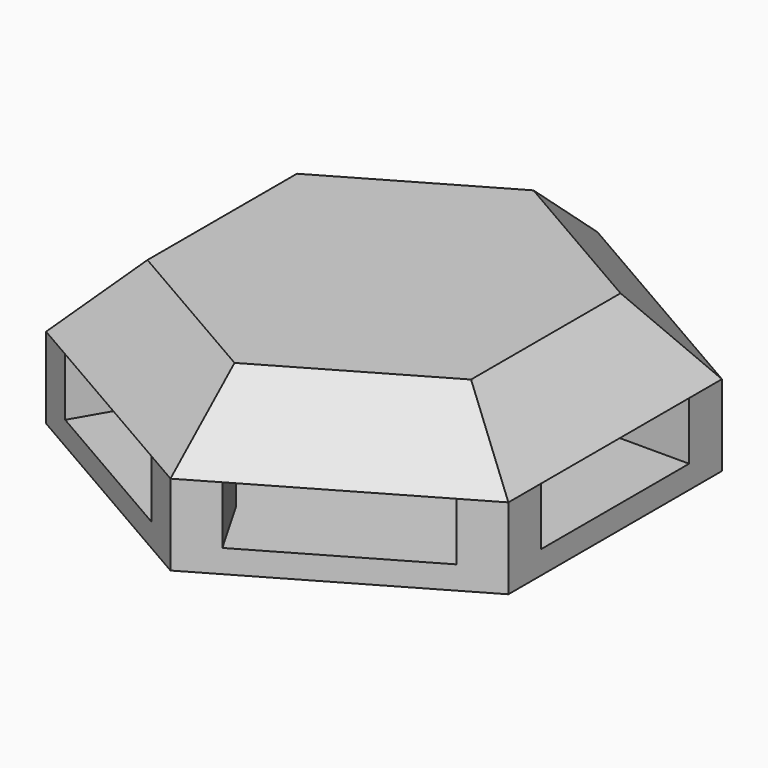
from build123d import *

# Parameters (mm, degrees)
BOX001_W                    = 8
BOX001_H                    = 20
BOX001_DEPTH                = 2.5
ARRAY_COUNT                 = 3
ARRAY_ANGLE                 = 120
PAD_DEPTH                   = 3
PAD_TAPER                   = 45
PAD001_DEPTH                = 3.5
FUSION_PLACEMENT_ANGLE      = 30
BASEFEATURE_PLACEMENT_ANGLE = 30
POCKET_DEPTH                = 3
POCKET_TAPER                = 45
CUT_PLACEMENT_ANGLE         = 30


with BuildPart() as array:
    # Box001 → Box001 (new body)
    with BuildSketch(Plane(origin=(-4, -10, -2.5), x_dir=(1, 0, 0), z_dir=(0, 0, 1))):
        with Locations((4, 10)):
            Rectangle(BOX001_W, BOX001_H)
    extrude(amount=BOX001_DEPTH)

    # Array: Array ×3 about axis
    array_axis = Axis((0, 0, 0), (0, 0, 1))


with BuildPart() as array_1:
    add(array.part)
    for i in range(1, ARRAY_COUNT):
        add(array.part.rotate(array_axis, i * ARRAY_ANGLE / (ARRAY_COUNT - 1)))


with BuildPart() as pad:
    # Sketch → Pad (new body)
    with BuildSketch(Plane.XY):
        Polygon((-11.547005, 0), (-5.773503, -10), (5.773503, -10), (11.547005, 0), (5.773503, 10), (-5.773503, 10), align=None)
    extrude(amount=PAD_DEPTH, taper=PAD_TAPER)


with BuildPart() as cell003:
    # Pad001 base: copy of Pad
    add(pad.part)

    # Sketch → Pad001 (new body)
    with BuildSketch(Plane.XY):
        Polygon((-11.547005, 0), (-5.773503, -10), (5.773503, -10), (11.547005, 0), (5.773503, 10), (-5.773503, 10), align=None)
    extrude(amount=-PAD001_DEPTH)

    # Fusion: union Pad
    add(pad.part)


with BuildPart() as cell003_1:
    # Fusion placement: moved
    add(cell003.part.rotate(Axis((0, 0, 0), (0, 0, 1)), FUSION_PLACEMENT_ANGLE))


with BuildPart() as cell003_2:
    # BaseFeature placement: moved
    add(cell003_1.part.rotate(Axis((0, 0, 0), (0, 0, -1)), BASEFEATURE_PLACEMENT_ANGLE))

    # Sketch002 → Pocket (cut)
    with BuildSketch(Plane(origin=(0, 0, -2), x_dir=(0.866025, 0.5, 0), z_dir=(0, 0, 1))):
        Polygon((0, 8), (-6.928203, 4), (-6.928203, -4), (0, -8), (6.928203, -4), (6.928203, 4), align=None)
    extrude(amount=POCKET_DEPTH, taper=POCKET_TAPER, mode=Mode.SUBTRACT)

    # Cut: cut Array
    add(array_1.part, mode=Mode.SUBTRACT)


with BuildPart() as cell003_3:
    # Cut placement: moved
    add(cell003_2.part.rotate(Axis((0, 0, 0), (0, 0, 1)), CUT_PLACEMENT_ANGLE))


with BuildPart() as cell003_4:
    # Clone002 placement: moved
    add(cell003_3.part.moved(Location((37.5, 64.951905, 0))))


solid = cell003_4.part
